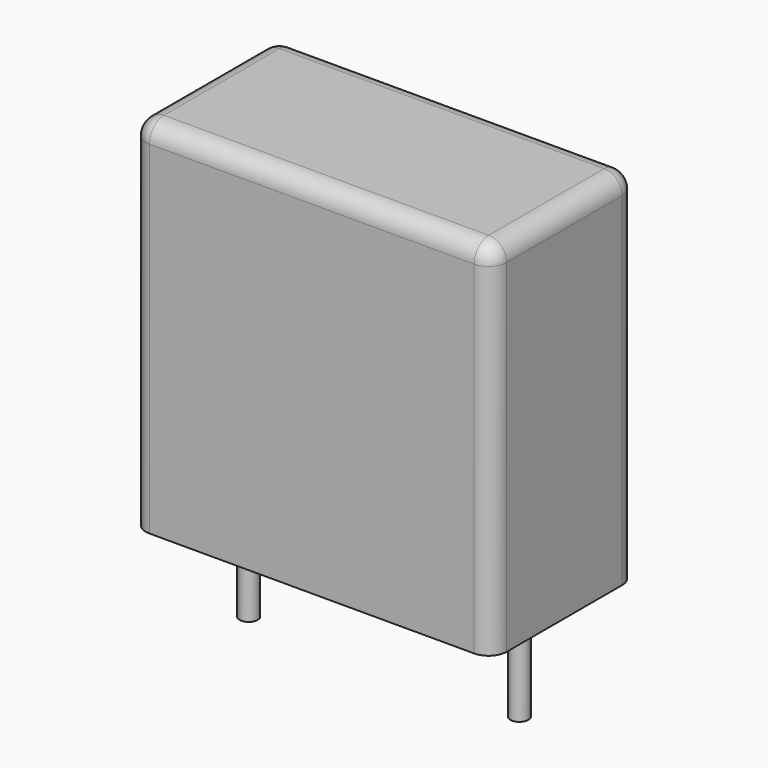
from build123d import *

# Parameters (mm, degrees)
SKETCH_W     = 10
SKETCH_H     = 5
PAD_DEPTH    = 10
FILLET_R     = 0.5
SKETCH001_R  = 0.25
PAD001_DEPTH = 3.2


with BuildPart() as fillet_body:
    # Sketch → Pad (new body)
    with BuildSketch(Plane.XY.offset(0.1)):
        with Locations((3.75, 0)):
            Rectangle(SKETCH_W, SKETCH_H)
    extrude(amount=PAD_DEPTH)

    # Fillet
    fillet_edges = [fillet_body.edges().sort_by_distance(p)[0] for p in [
        (-1.25, 0, 10.1),
        (-1.25, -2.5, 5.1),
        (3.75, -2.5, 10.1),
        (8.75, -2.5, 5.1),
        (8.75, 0, 10.1),
        (8.75, 2.5, 5.1),
        (3.75, 2.5, 10.1),
        (-1.25, 2.5, 5.1),
    ]]
    fillet(fillet_edges, radius=FILLET_R)


with BuildPart() as pad001:
    # Sketch001 → Pad001 (new body)
    with BuildSketch(Plane.XY.offset(0.5)):
        Circle(SKETCH001_R)
        with Locations((7.5, 0)):
            Circle(SKETCH001_R)
    extrude(amount=-PAD001_DEPTH)


solid = Compound([fillet_body.part, pad001.part])
